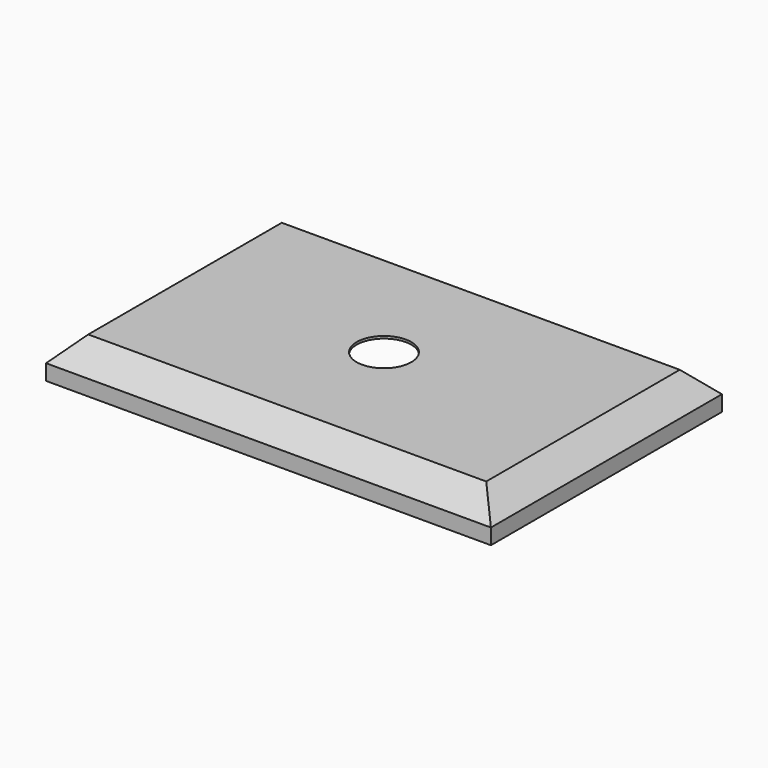
from build123d import *

# Parameters (mm, degrees)
F0_W     = 285
F0_H     = 185
F0_R     = 17.5
F1_DEPTH = 25
F2_SIZE  = 15
F3_T     = -1.5


with BuildPart() as f1:
    # F0 (on Top) → F1 (new body)
    with BuildSketch(Plane.XY):
        with Locations((-142.5, 92.5)):
            Rectangle(F0_W, F0_H)
        with Locations((-142.5, 92.5)):
            Circle(F0_R, mode=Mode.SUBTRACT)
    extrude(amount=F1_DEPTH)

    # F2
    f2_edges = [f1.edges().sort_by_distance(p)[0] for p in [
        (0, 92.5, 25),
        (-142.5, 185, 25),
        (-285, 92.5, 25),
        (-142.5, 0, 25),
    ]]
    chamfer(f2_edges, length=F2_SIZE)

    # F3
    f3_openings = [f1.faces().sort_by_distance(p)[0] for p in [
        (-142.5, 3.397793, 0),
        (-160, 92.5, 12.5),
    ]]
    offset(amount=F3_T, openings=f3_openings)


solid = f1.part
